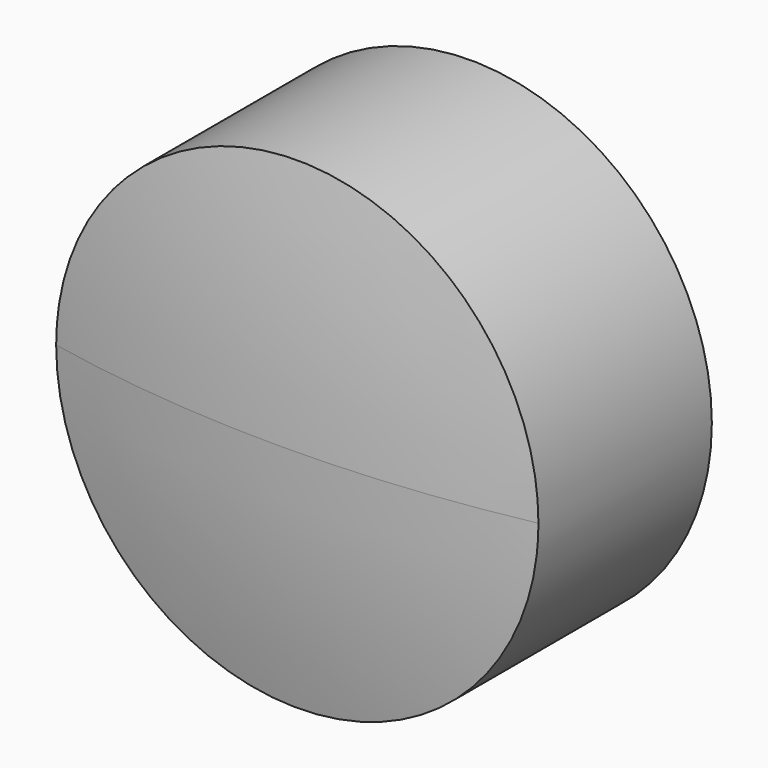
from build123d import *

# Parameters (mm, degrees)
F2_R          = 51.3419561809
F2_R_2        = 6.35
F3_DEPTH      = 31.751
F3_DEPTH_BACK = 31.751
F4_R          = 20.622673328
F5_DEPTH      = 31.751
F5_DEPTH_BACK = 25.4


with BuildPart() as f1:
    # F0 (on Front) → F1 (revolve)
    with BuildSketch(Plane.XZ):
        with BuildLine():
            ThreePointArc((0, -31.75), (22.4506403027, -22.4506403027), (31.75, 0))
            ThreePointArc((31.75, 0), (22.4506403027, 22.4506403027), (0, 31.75))
            Line((0, 31.75), (0, -31.75))
        make_face()
    revolve(axis=Axis((0, 0, 0), (0, 0, -1)))

    # F2 (on Front) → F3 (cut, two sides)
    with BuildSketch(Plane.XZ) as f3_sk:
        Circle(F2_R)
        Circle(F2_R_2, mode=Mode.SUBTRACT)
    extrude(amount=-F3_DEPTH, mode=Mode.SUBTRACT)
    extrude(f3_sk.sketch, amount=F3_DEPTH_BACK, mode=Mode.SUBTRACT)

    # F4 (on Front) → F5 (cut, two sides)
    with BuildSketch(Plane.XZ) as f5_sk:
        Circle(F4_R)
    extrude(amount=-F5_DEPTH, mode=Mode.SUBTRACT)
    extrude(f5_sk.sketch, amount=F5_DEPTH_BACK, mode=Mode.SUBTRACT)


solid = f1.part
